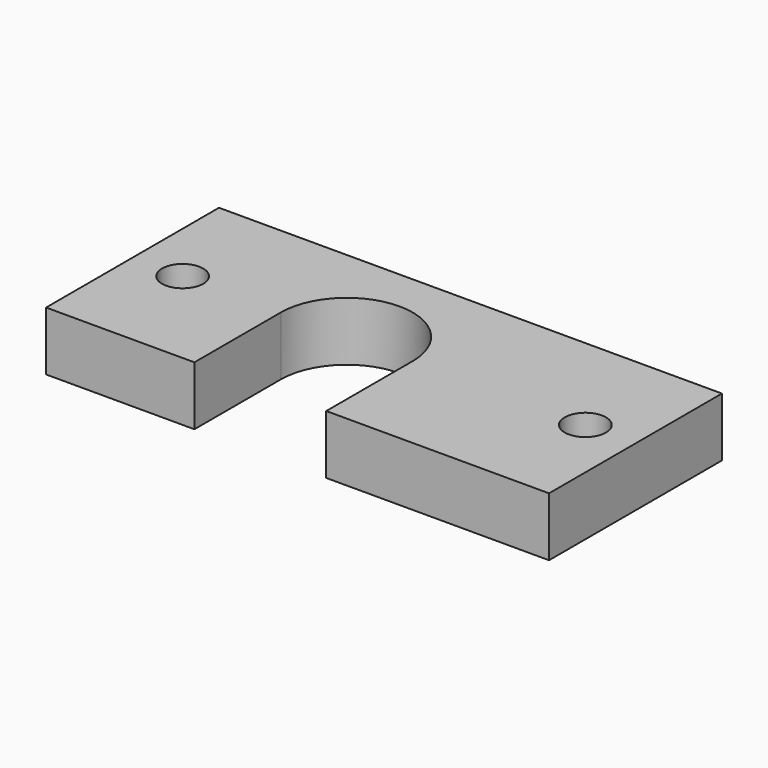
from build123d import *

# Parameters (mm, degrees)
F0_R     = 2.1
F1_DEPTH = 3


with BuildPart() as f1:
    # F0 (on Top) → F1 (new body, symmetric)
    with BuildSketch(Plane.XY):
        with BuildLine():
            Line((25.6, -11), (25.6, 11))
            Line((25.6, 11), (-25.6, 11))
            Line((-25.6, 11), (-25.6, -11))
            Line((-25.6, -11), (-10.5, -11))
            Line((-10.5, -11), (-10.5, 0))
            ThreePointArc((-10.5, 0), (-3.79, 6.71), (2.92, 0))
            Line((2.92, 0), (2.92, -11))
            Line((2.92, -11), (25.6, -11))
        make_face()
        with Locations((-20.5, 0)):
            Circle(F0_R, mode=Mode.SUBTRACT)
        with Locations((20.5, 0)):
            Circle(F0_R, mode=Mode.SUBTRACT)
    extrude(amount=F1_DEPTH, both=True)


solid = f1.part
